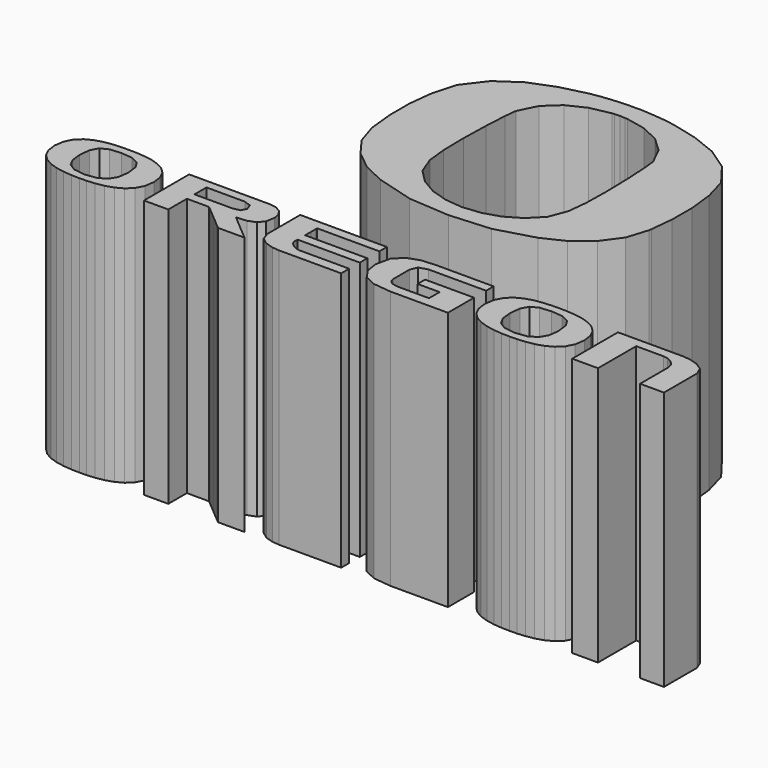
from build123d import *

# Parameters (mm, degrees)
F1_DEPTH = 25.4


with BuildPart() as f1:
    # F0 (on Top) → F1 (new body)
    with BuildSketch(Plane.XY):
        Polygon((13.299313, 10.004425), (12.675489, 12.257659), (11.054715, 14.385163), (8.903335, 15.858363), (6.435471, 16.836771), (3.863975, 17.477613), (2.828925, 17.647031), (1.699133, 17.762855), (0.789559, 17.829149), (0.417449, 17.849977), (-0.281051, 17.838547), (-0.281051, 17.834737), (-0.978281, 17.845659), (-1.351915, 17.824831), (-2.261235, 17.758791), (-3.390011, 17.643221), (-4.423537, 17.473549), (-6.996303, 16.832961), (-9.464345, 15.854299), (-11.615471, 14.381353), (-13.236016, 12.253341), (-13.861669, 9.999091), (-14.137259, 7.580503), (-14.127632, 5.155311), (-13.891971, 2.877439), (-13.857503, 2.636393), (-13.202971, 0.569087), (-11.888318, -1.219581), (-10.098253, -2.647061), (-8.014589, -3.636645), (-4.271899, -4.704715), (-0.252095, -4.985639), (-0.252095, -4.982845), (3.737483, -4.695063), (7.454011, -3.632581), (9.536049, -2.641727), (11.325987, -1.213993), (12.642215, 0.573405), (13.298043, 2.641727), (13.332587, 2.881503), (13.565505, 5.160899), (13.576427, 7.586091), align=None)
        Polygon((6.756527, 5.673471), (6.711061, 3.179191), (6.507099, 1.269111), (5.845683, -0.474091), (4.588891, -1.739011), (3.097911, -2.612771), (1.448181, -3.122549), (-0.281051, -3.297555), (-0.281051, -3.301873), (-2.011807, -3.126867), (-3.660013, -2.618359), (-5.150993, -1.744599), (-6.404991, -0.479425), (-7.067931, 1.263777), (-7.271893, 3.173603), (-7.317359, 5.667883), (-7.252589, 8.342503), (-7.129907, 10.568305), (-7.003161, 11.716131), (-6.136259, 13.474319), (-4.744593, 14.766925), (-2.991739, 15.607665), (-1.038987, 16.008731), (-0.779907, 16.026765), (-0.252095, 16.051403), (-0.252095, 16.052927), (0.242443, 16.029305), (0.479679, 16.013049), (2.431161, 15.611983), (4.182237, 14.771243), (5.574411, 13.478637), (6.443853, 11.720449), (6.569075, 10.573893), (6.692011, 8.348091), align=None, mode=Mode.SUBTRACT)
        Polygon((-21.411921, -15.726131), (-21.271382, -14.772538), (-21.399525, -13.861669), (-21.750909, -13.160248), (-22.282861, -12.639345), (-22.948443, -12.2714), (-23.706353, -12.033021), (-24.509781, -11.895176), (-25.314529, -11.831828), (-26.075234, -11.816664), (-26.791793, -11.824919), (-27.585543, -11.875922), (-28.40548, -11.998554), (-29.196462, -12.225909), (-29.904766, -12.59111), (-30.478044, -13.12578), (-30.861152, -13.861669), (-31.000319, -14.833194), (-30.874919, -15.735808), (-30.524907, -16.439998), (-29.99298, -16.970527), (-29.32463, -17.350867), (-28.561182, -17.605781), (-27.746757, -17.757369), (-26.924076, -17.831791), (-26.135838, -17.851095), (-25.439954, -17.835931), (-24.659946, -17.772532), (-23.851083, -17.631994), (-23.066959, -17.385284), (-22.36277, -17.00497), (-21.793632, -16.460622), align=None)
        Polygon((-28.422016, -15.81846), (-28.537764, -14.833194), (-28.419273, -13.726592), (-28.027884, -13.03622), (-27.31958, -12.680671), (-26.243331, -12.581484), (-25.118847, -12.684811), (-24.35545, -13.043129), (-23.919967, -13.729386), (-23.780775, -14.81389), (-23.917224, -15.810205), (-24.348516, -16.533673), (-25.113336, -16.974668), (-26.243331, -17.123486), (-27.329206, -16.974668), (-28.037561, -16.536441), align=None, mode=Mode.SUBTRACT)
        Polygon((-11.355019, -12.224537), (-12.099163, -12.110161), (-19.964984, -12.110161), (-19.964984, -17.65267), (-17.579594, -17.648504), (-17.579594, -15.369235), (-15.409215, -15.369235), (-15.293467, -15.465679), (-14.988896, -15.723387), (-14.556181, -16.087217), (-14.061491, -16.506139), (-13.56675, -16.92369), (-13.135458, -17.290212), (-12.830886, -17.54792), (-12.715138, -17.648504), (-10.774883, -17.648504), (-10.113416, -17.648504), (-10.226396, -17.55206), (-10.524058, -17.299889), (-10.944352, -16.944315), (-11.423904, -16.536441), (-11.903481, -16.128517), (-12.31966, -15.772994), (-12.611786, -15.523566), (-12.715138, -15.431262), (-11.709171, -15.347188), (-10.970565, -15.064689), (-10.515803, -14.520342), (-10.360076, -13.649452), (-10.474452, -13.03208), (-10.8093, -12.544273), align=None)
        Polygon((-17.419752, -14.444574), (-17.579594, -14.445945), (-17.579594, -12.968681), (-13.823086, -12.972821), (-13.140944, -13.208483), (-12.930099, -13.784478), (-13.160248, -14.287475), (-13.83825, -14.445945), (-13.999464, -14.440433), (-14.423898, -14.439062), (-15.023338, -14.439062), (-15.709595, -14.439062), (-16.395878, -14.44183), (-16.995343, -14.443202), align=None, mode=Mode.SUBTRACT)
        Polygon((9.824085, -12.968681), (9.824085, -12.045391), (4.189349, -12.045391), (2.798699, -12.150141), (1.613789, -12.558065), (0.788289, -13.402793), (0.479679, -14.819401), (0.658749, -16.003143), (1.266571, -16.893337), (2.407539, -17.452848), (4.189349, -17.648504), (9.824085, -17.648504), (9.824085, -14.445945), (5.025771, -14.445945), (5.027041, -15.369235), (7.190613, -15.369235), (7.186549, -15.563545), (7.187819, -16.010026), (7.192137, -16.459251), (7.198741, -16.667353), (4.189349, -16.667353), (3.804793, -16.62877), (3.441065, -16.503345), (3.170809, -16.267735), (3.064637, -15.89565), (3.064637, -13.90716), (3.365119, -13.209854), (4.174109, -12.968681), align=None)
        Polygon((-0.633857, -12.972821), (-0.633857, -12.049531), (-9.130843, -12.049531), (-9.130843, -16.066541), (-8.86902, -16.846499), (-8.232267, -17.330191), (-7.445629, -17.578222), (-6.730365, -17.648504), (-0.633857, -17.648504), (-0.633857, -16.667353), (-5.545201, -16.667353), (-5.874639, -16.591534), (-6.270117, -16.391738), (-6.602095, -16.105099), (-6.741287, -15.77025), (-6.744081, -15.562174), (-6.730365, -15.369235), (-0.633857, -15.369235), (-0.633857, -14.445945), (-6.730365, -14.445945), (-6.731635, -14.211656), (-6.733159, -13.699033), (-6.734429, -13.19055), (-6.730365, -12.968681), align=None)
        Polygon((20.699603, -15.650362), (20.840065, -14.696745), (20.712049, -13.785875), (20.360513, -13.084429), (19.828637, -12.563551), (19.162903, -12.195607), (18.405221, -11.957202), (17.602835, -11.819407), (16.798163, -11.756009), (16.037687, -11.740845), (15.321153, -11.749126), (14.526133, -11.800103), (13.705713, -11.922785), (12.915011, -12.151512), (12.206605, -12.516714), (11.633327, -13.051384), (11.250549, -13.787247), (11.111103, -14.758746), (11.236325, -15.659989), (11.586591, -16.364179), (12.118213, -16.894708), (12.786741, -17.275048), (13.550265, -17.529988), (14.364843, -17.6816), (15.187549, -17.755997), (15.975711, -17.775276), (16.671671, -17.760112), (17.452975, -17.696764), (18.261965, -17.556175), (19.044539, -17.309516), (19.748627, -16.929176), (20.317841, -16.384854), align=None)
        Polygon((13.690981, -15.744063), (13.574903, -14.758746), (13.693521, -13.650824), (14.083665, -12.960426), (14.792071, -12.606274), (15.868015, -12.507036), (16.992727, -12.610414), (17.757521, -12.968681), (18.191353, -13.653567), (18.330799, -14.738071), (18.194147, -15.734436), (17.762855, -16.457879), (16.999331, -16.898849), (15.868015, -17.047693), (14.782165, -16.898849), (14.073759, -16.460622), align=None, mode=Mode.SUBTRACT)
        Polygon((29.076777, -12.11293), (28.398597, -12.045391), (22.010243, -12.045391), (22.010243, -17.648504), (24.534749, -17.648504), (24.534749, -12.968681), (27.198447, -12.968681), (27.635327, -13.03622), (28.114625, -13.252577), (28.500705, -13.63152), (28.660471, -14.188237), (28.660471, -17.648504), (31.000319, -17.648504), (31.000319, -13.603961), (30.683327, -12.833655), (29.940631, -12.356821), align=None)
    extrude(amount=F1_DEPTH)


solid = f1.part
